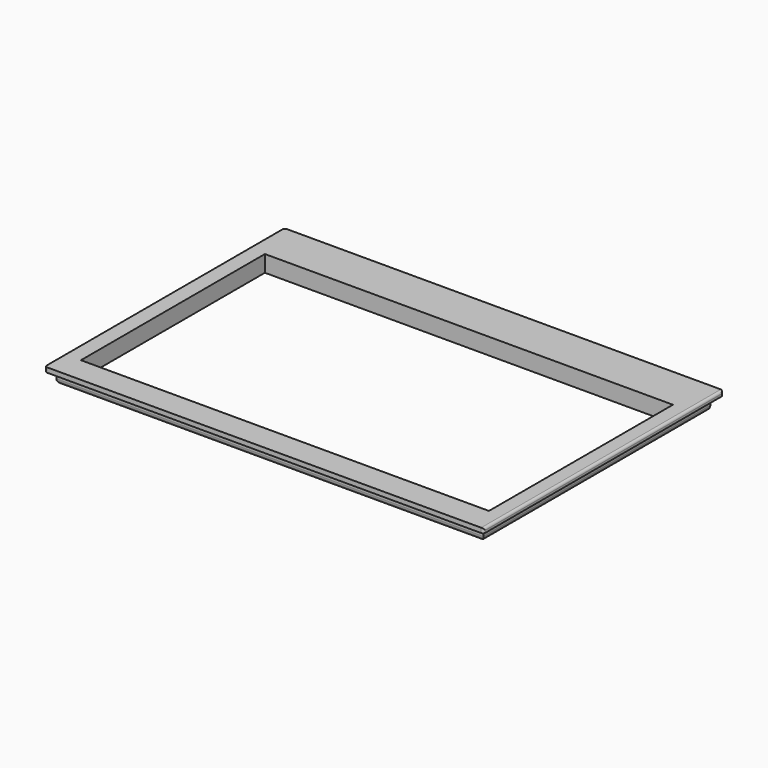
from build123d import *

# Parameters (mm, degrees)
BOX018_W     = 173
BOX018_H     = 97.5
BOX018_DEPTH = 30
BOX019_W     = 181
BOX019_H     = 121
BOX019_DEPTH = 5
BOX017_W     = 186
BOX017_H     = 127
BOX017_DEPTH = 2
FILLET008_R  = 2
FILLET009_R  = 1


with BuildPart() as cutout:
    # Box018 → Box018 (new body)
    with BuildSketch(Plane(origin=(6.5, 11, -25), x_dir=(1, 0, 0), z_dir=(0, 0, 1))):
        with Locations((86.5, 48.75)):
            Rectangle(BOX018_W, BOX018_H)
    extrude(amount=BOX018_DEPTH)


with BuildPart() as cube016:
    # Box019 → Box019 (new body)
    with BuildSketch(Plane(origin=(2.5, 3, -5), x_dir=(1, 0, 0), z_dir=(0, 0, 1))):
        with Locations((90.5, 60.5)):
            Rectangle(BOX019_W, BOX019_H)
    extrude(amount=BOX019_DEPTH)


with BuildPart() as fascia:
    # Box017 → Box017 (new body)
    with BuildSketch(Plane.XY):
        with Locations((93, 63.5)):
            Rectangle(BOX017_W, BOX017_H)
    extrude(amount=BOX017_DEPTH)

    # Fusion007: union Cube016
    add(cube016.part)

    # Cut007: cut Cutout
    add(cutout.part, mode=Mode.SUBTRACT)

    # Fillet008
    fillet008_edges = [fascia.edges().sort_by_distance(p)[0] for p in [
        (2.5, 124, -2.5),
        (2.5, 63.5, -5),
        (93, 3, -5),
        (183.5, 63.5, -5),
    ]]
    fillet(fillet008_edges, radius=FILLET008_R)

    # Fillet009
    fillet009_edges = [fascia.edges().sort_by_distance(p)[0] for p in [
        (2.973408, 123.292098, -4.292098),
        (93, 3, -3),
        (183.5, 124, -1.5),
        (0, 0, 1),
        (0, 127, 1),
        (186, 127, 1),
        (186, 0, 1),
        (186, 63.5, 2),
    ]]
    fillet(fillet009_edges, radius=FILLET009_R)


solid = fascia.part
